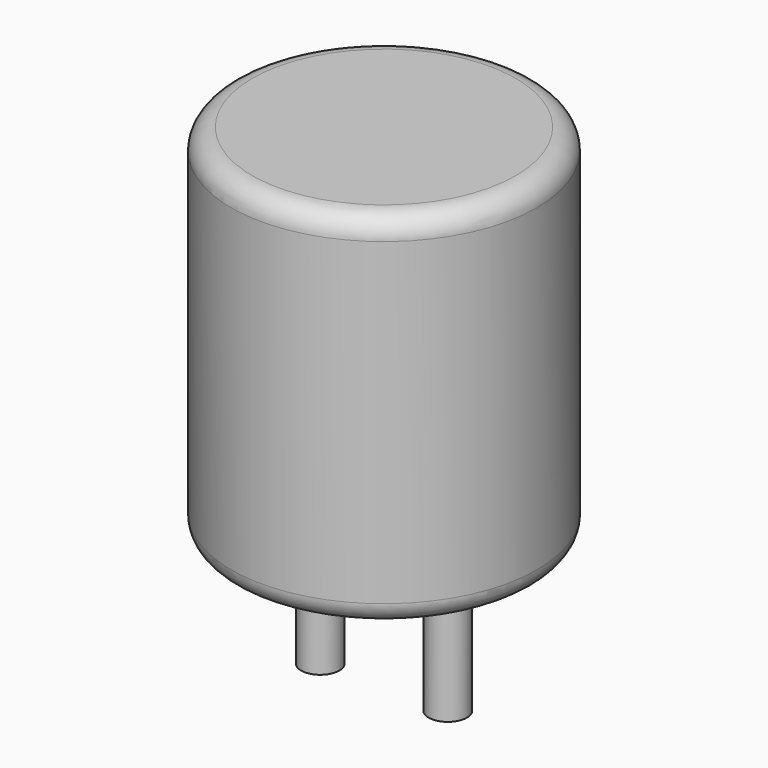
from build123d import *

# Parameters (mm, degrees)
SKETCH_R          = 3.6
PAD_DEPTH         = 8.5
FILLET_R          = 0.5
SKETCH001_R       = 0.45
PAD001_DEPTH      = 4.25
PAD001_DEPTH_BACK = 3.5


with BuildPart() as fillet_body:
    # Sketch → Pad (new body)
    with BuildSketch(Plane.XY.offset(0.1)):
        with Locations((1.5, 0)):
            Circle(SKETCH_R)
    extrude(amount=PAD_DEPTH)

    # Fillet
    fillet_edges = [fillet_body.edges().sort_by_distance(p)[0] for p in [
        (-2.1, 0, 0.1),
        (-2.1, 0, 8.6),
    ]]
    fillet(fillet_edges, radius=FILLET_R)


with BuildPart() as obj1:
    # Sketch001 → Pad001 (new body, two sides)
    with BuildSketch(Plane.XY.offset(0.5)) as pad001_sk:
        Circle(SKETCH001_R)
        with Locations((3, 0)):
            Circle(SKETCH001_R)
    extrude(amount=PAD001_DEPTH)
    extrude(pad001_sk.sketch, amount=-PAD001_DEPTH_BACK)

    # obj1: union Fillet body
    add(fillet_body.part)


solid = obj1.part
